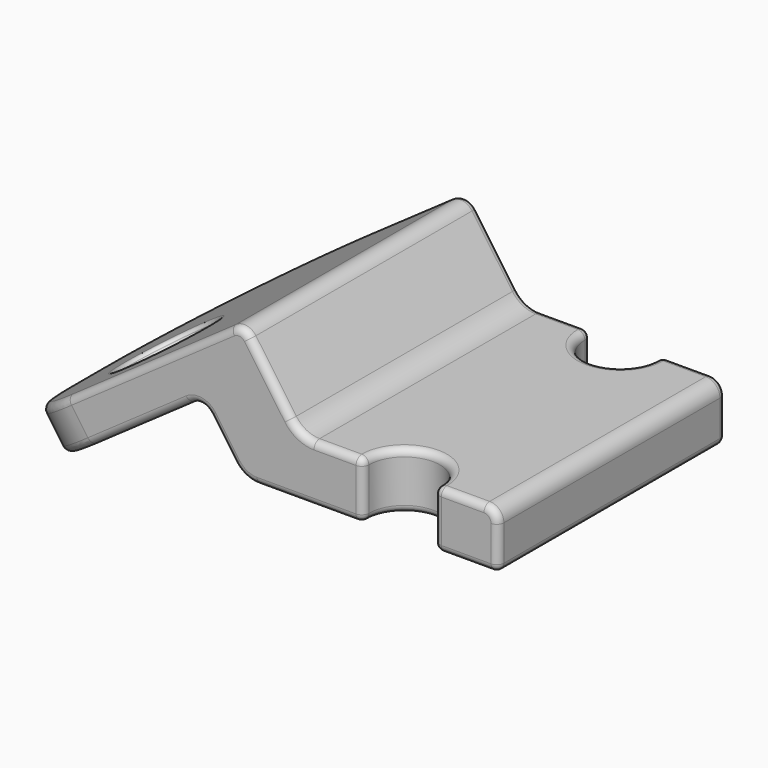
from build123d import *

# Parameters (mm, degrees)
F1_DEPTH  = 20
F2_R      = 2.5
F3_DEPTH  = 8.1959205499
F4_R      = 1
F5_R      = 3.302
F6_DEPTH  = 12.3979262079
F7_R      = 12
F8_R      = 5
F9_R      = 1
F10_R     = 2
F11_R     = 2
F12_R     = 1
F13_R     = 0.5
F16_DEPTH = 3
F17_R     = 0.25


with BuildPart() as f1:
    # F0 (on Front) → F1 (new body)
    with BuildSketch(Plane.XZ):
        Polygon((-20.8577312736, 4.0812632222), (-18, 0), (0, 0), (0, 4), (-14, 4), (-18.0150350545, 9.73406431), (-34.3980759402, -1.737464417), (-32.6773466312, -4.1949205499), align=None)
    extrude(amount=F1_DEPTH)

    # F2 (on face) → F3 (cut, through all)
    with BuildSketch(Plane.XY.offset(4)):
        with Locations((-7, -0.5)):
            Circle(F2_R)
        with Locations((-7, -19.5)):
            Circle(F2_R)
    extrude(amount=-F3_DEPTH, mode=Mode.SUBTRACT)

    # F4
    f4_edges = [f1.edges().sort_by_distance(p)[0] for p in [
        (-20.857731, -10, 4.081263),
    ]]
    fillet(f4_edges, radius=F4_R)

    # F5 (on face) → F6 (cut, through all)
    with BuildSketch(Plane(origin=(-8.7795499837, 0, 12.5384968093), x_dir=(0.8191520443, 0, 0.5735764364), z_dir=(0.5735764364, 0, -0.8191520443))):
        with Locations((-21.5538228746, 14)):
            Circle(F5_R)
    extrude(amount=-F6_DEPTH, mode=Mode.SUBTRACT)

    # F7
    f7_edges = [f1.edges().sort_by_distance(p)[0] for p in [
        (-33.537711, 0, -2.966192),
    ]]
    fillet(f7_edges, radius=F7_R)

    # F8
    f8_edges = [f1.edges().sort_by_distance(p)[0] for p in [
        (-33.537711, -20, -2.966192),
    ]]
    fillet(f8_edges, radius=F8_R)

    # F9
    f9_edges = [f1.edges().sort_by_distance(p)[0] for p in [
        (-18.015035, -10, 9.734064),
    ]]
    fillet(f9_edges, radius=F9_R)

    # F10
    f10_edges = [f1.edges().sort_by_distance(p)[0] for p in [
        (-14, -10, 4),
    ]]
    fillet(f10_edges, radius=F10_R)

    # F11
    f11_edges = [f1.edges().sort_by_distance(p)[0] for p in [
        (-18, -10, 0),
    ]]
    fillet(f11_edges, radius=F11_R)

    # F12
    f12_edges = [f1.edges().sort_by_distance(p)[0] for p in [
        (0, -10, 4),
    ]]
    fillet(f12_edges, radius=F12_R)

    # F13
    f13_edges = [f1.edges().sort_by_distance(p)[0] for p in [
        (-13.204178, 0, 0),
        (-17.882363, 0, 0.225978),
        (-9.44949, 0, 2),
        (-19.440662, 0, 2.057479),
        (-11.204178, 0, 4),
        (-20.929659, 0, 3.673342),
        (-13.882363, 0, 4.225978),
        (-22.262203, 0, 3.097842),
        (-16.019314, 0, 6.88388),
        (-23.707887, 0, 3.916725),
        (-18.086962, 0, 9.326144),
        (-21.701219, 0, 7.15297),
        (-2.775255, 0, 4),
        (-0.292893, 0, 3.707107),
        (-4.55051, 0, 2),
        (0, 0, 1.5),
        (-2.275255, 0, 0),
        (-31.518987, -3.514719, 0.278495),
        (-33.537711, -12, -2.966192),
        (-29.798258, -3.514719, -2.178961),
        (-34.398076, -13.5, -1.737464),
        (-33.537711, -15, -2.966192),
        (-32.677347, -13.5, -4.194921),
        (-33.198456, -18.535534, -0.897481),
        (-29.441951, -20, -0.09831),
        (-31.477726, -18.535534, -3.354937),
        (-13.204178, -20, 0),
        (-17.882363, -20, 0.225978),
        (-9.44949, -20, 2),
        (-19.440662, -20, 2.057479),
        (-11.204178, -20, 4),
        (-20.929659, -20, 3.673342),
        (-13.882363, -20, 4.225978),
        (-25.129235, -20, 1.090324),
        (-16.019314, -20, 6.88388),
        (-18.086962, -20, 9.326144),
        (-24.568251, -20, 5.145453),
        (-2.775255, -20, 4),
        (-0.292893, -20, 3.707107),
        (-4.55051, -20, 2),
        (0, -20, 1.5),
        (-2.275255, -20, 0),
        (-7, -17, 4),
        (-7, -17, 0),
        (-7, -3, 0),
        (-7, -3, 4),
        (0, -10, 3),
        (0, -10, 0),
    ]]
    fillet(f13_edges, radius=F13_R)

    # F15 (on offset) → F16 (join)
    with BuildSketch(Plane(origin=(0, -5, 0), x_dir=(-1, 0, 0), z_dir=(0, 1, 0))):
        with BuildLine():
            Line((20.2841548373, 3.2621111779), (18.5971699875, 0.8528471273))
            ThreePointArc((18.5971699875, 0.8528471273), (18.2627832242, 0.4834909797), (17.8474758502, 0.2082488023))
            Line((17.8474758502, 0.2082488023), (22.8475220997, 2.6879966863))
            Line((22.8475220997, 2.6879966863), (21.6768833179, 3.5076867859))
            ThreePointArc((21.6768833179, 3.5076867859), (20.9296587039, 3.6733424946), (20.2841548373, 3.2621111779))
        make_face()
    extrude(amount=-F16_DEPTH)

    # F17
    f17_edges = [f1.edges().sort_by_distance(p)[0] for p in [
        (-29.140248, -14, -1.718217),
        (-24.590933, -14, 3.298409),
        (-30.860977, -14, 0.739239),
    ]]
    fillet(f17_edges, radius=F17_R)


solid = f1.part
